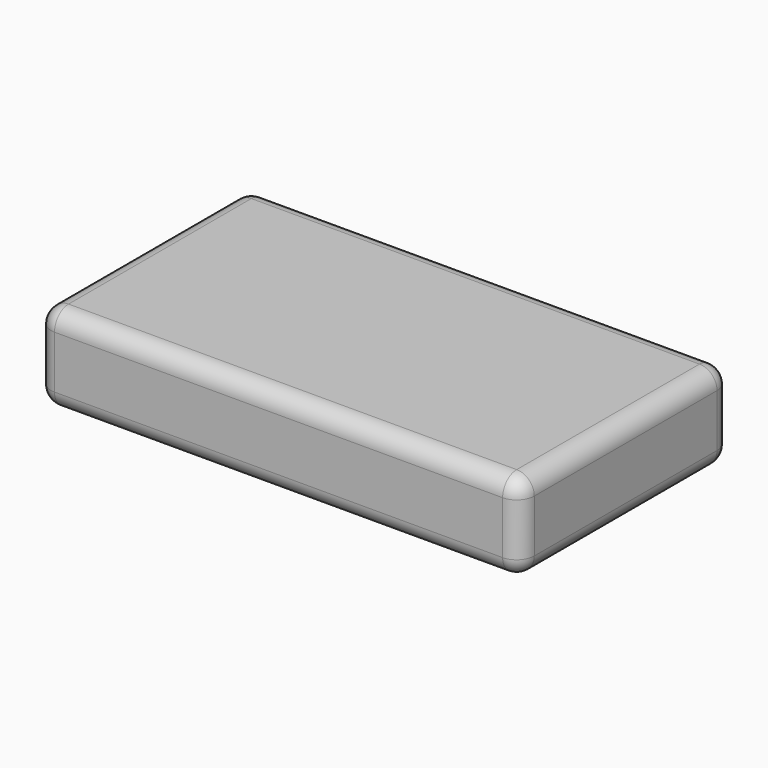
from build123d import *

# Parameters (mm, degrees)
F0_W     = 55
F0_H     = 30
F1_DEPTH = 10
F2_R     = 2
F3_R     = 2


with BuildPart() as f1:
    # F0 (on Top) → F1 (new body)
    with BuildSketch(Plane.XY):
        Rectangle(F0_W, F0_H)
    extrude(amount=F1_DEPTH)

    # F2
    f2_edges = [f1.edges().sort_by_distance(p)[0] for p in [
        (27.5, 0, 0),
        (27.5, 0, 10),
    ]]
    fillet(f2_edges, radius=F2_R)

    # F3
    f3_edges = [f1.edges().sort_by_distance(p)[0] for p in [
        (-27.5, 0, 10),
        (-27.5, 0, 0),
        (-27.5, -15, 5),
        (27.5, -15, 5),
        (27.5, 15, 5),
        (26.914214, 15, 0.585786),
        (26.914214, 15, 9.414214),
        (-1, 15, 0),
        (-1, 15, 10),
        (-27.5, 15, 5),
    ]]
    fillet(f3_edges, radius=F3_R)


solid = f1.part
